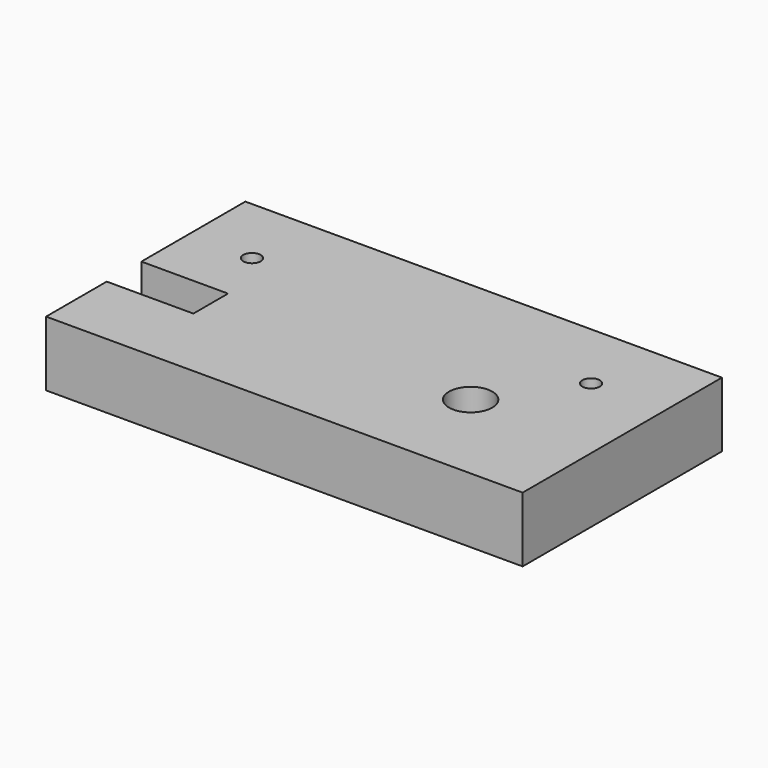
from build123d import *

# Parameters (mm, degrees)
F0_W     = 139.7
F0_H     = 73.025
F1_DEPTH = 19.05
F2_W     = 25.4
F2_H     = 12.7
F2_R     = 6.35
F3_DEPTH = 25.4
F5_D     = 5.1054
F5_DEPTH = 16.51
F5_TIP   = 1.5338169022


with BuildPart() as f1:
    # F0 (on Top) → F1 (new body)
    with BuildSketch(Plane.XY):
        with Locations((69.85, 36.5125)):
            Rectangle(F0_W, F0_H)
    extrude(amount=F1_DEPTH)

    # F2 (on face) → F3 (cut)
    with BuildSketch(Plane.XY.offset(19.05)):
        with Locations((12.7, 28.575)):
            Rectangle(F2_W, F2_H)
        with Locations((101.6, 28.575)):
            Circle(F2_R)
    extrude(amount=-F3_DEPTH, mode=Mode.SUBTRACT)

    # F5
    with Locations(Plane.XY.offset(19.05)):
        with Locations((18.6944, 52.07), (118.11, 52.07)):
            Hole(F5_D / 2, depth=F5_DEPTH)
            with Locations((0, 0, -(F5_DEPTH + F5_TIP / 2))):  # 118° drill point
                Cone(0, F5_D / 2, F5_TIP, mode=Mode.SUBTRACT)


solid = f1.part
